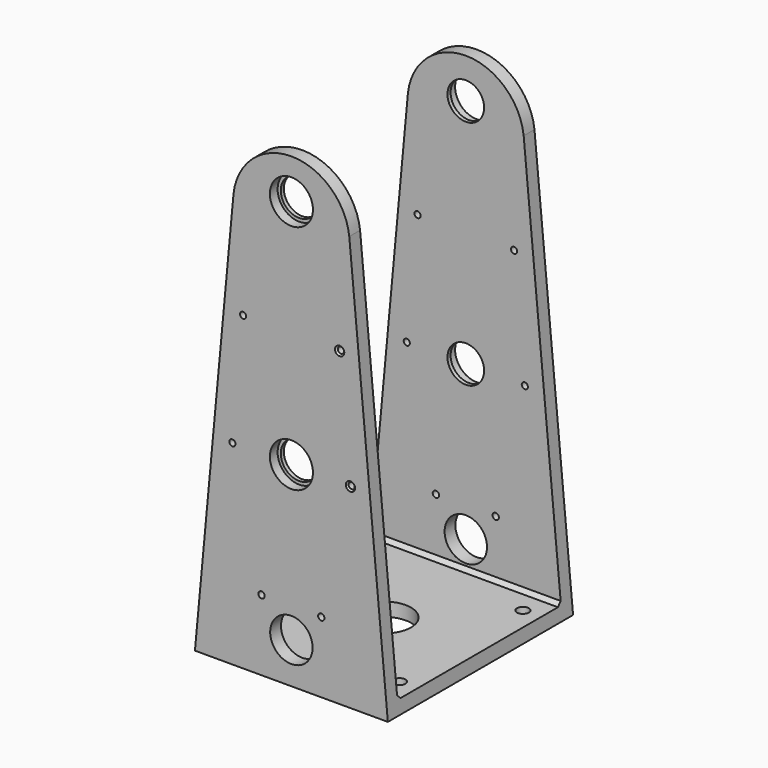
from build123d import *

# Parameters (mm, degrees)
SKETCH102_R             = 9.5
SKETCH102_R_2           = 11
SKETCH102_R_3           = 1.65
SKETCH102_R_4           = 1.6
PAD032_DEPTH            = 120
POCKET061_DEPTH         = 152.4
SKETCH099_R             = 3.1
SKETCH099_R_2           = 14
POCKET059_DEPTH         = 8
SKETCH098_R             = 11.15
POCKET060_DEPTH         = 5
SKETCH101_R             = 11.15
POCKET062_DEPTH         = 5
CHAMFER012_SIZE         = 0.8
BODY024_PLACEMENT_ANGLE = 90


with BuildPart() as part:
    # Sketch102 → Pad032 (new body)
    with BuildSketch(Plane.XY):
        with BuildLine():
            Line((-50, 0), (50, 0))
            Line((50, 0), (30, 215))
            ThreePointArc((30, 215), (0, 241.8364621975), (-30, 215))
            Line((-50, 0), (-30, 215))
        make_face()
        with Locations((0, 221.15)):
            Circle(SKETCH102_R, mode=Mode.SUBTRACT)
        with Locations((0, 21.15)):
            Circle(SKETCH102_R_2, mode=Mode.SUBTRACT)
        with Locations((0, 101.15)):
            Circle(SKETCH102_R, mode=Mode.SUBTRACT)
        with Locations((-15.5, 36.65)):
            Circle(SKETCH102_R_3, mode=Mode.SUBTRACT)
        with Locations((15.5, 36.65)):
            Circle(SKETCH102_R_3, mode=Mode.SUBTRACT)
        with Locations((-30.5906976744, 101.15)):
            Circle(SKETCH102_R_4, mode=Mode.SUBTRACT)
        with Locations((30.5906976744, 101.15)):
            Circle(SKETCH102_R_4, mode=Mode.SUBTRACT)
        with Locations((-25.0093023256, 161.15)):
            Circle(SKETCH102_R_4, mode=Mode.SUBTRACT)
        with Locations((25.0093023256, 161.15)):
            Circle(SKETCH102_R_4, mode=Mode.SUBTRACT)
    extrude(amount=PAD032_DEPTH)

    # Sketch100 → Pocket061 (cut, symmetric)
    with BuildSketch(Plane(origin=(0, 0, 120), x_dir=(0, 0, -1), z_dir=(1, 0, 0))):
        Polygon((7, 252.37), (113, 252.37), (113, 9), (111, 7), (9, 7), (7, 9), align=None)
    extrude(amount=POCKET061_DEPTH, both=True, mode=Mode.SUBTRACT)

    # Sketch099 (on Face1 of Pocket061) → Pocket059 (cut)
    with BuildSketch(Plane.XZ):
        with Locations((-40, 100)):
            Circle(SKETCH099_R)
        with Locations((40, 100)):
            Circle(SKETCH099_R)
        with Locations((-40, 20)):
            Circle(SKETCH099_R)
        with Locations((40, 20)):
            Circle(SKETCH099_R)
        with Locations((0, 60)):
            Circle(SKETCH099_R_2)
    extrude(amount=-POCKET059_DEPTH, mode=Mode.SUBTRACT)

    # Sketch098 (on Face4 of Pocket059) → Pocket060 (cut)
    with BuildSketch(Plane.XY.offset(120)):
        with Locations((0, 101.15)):
            Circle(SKETCH098_R)
        with Locations((0, 221.15)):
            Circle(SKETCH098_R)
    extrude(amount=-POCKET060_DEPTH, mode=Mode.SUBTRACT)

    # Sketch101 (on Face3 of Pocket060) → Pocket062 (cut)
    with BuildSketch(Plane(origin=(0, 0, 0), x_dir=(1, 0, 0), z_dir=(0, 0, -1))):
        with Locations((0, -221.15)):
            Circle(SKETCH101_R)
        with Locations((0, -101.15)):
            Circle(SKETCH101_R)
    extrude(amount=-POCKET062_DEPTH, mode=Mode.SUBTRACT)

    # Chamfer012
    chamfer012_edges = [part.edges().sort_by_distance(p)[0] for p in [
        (23.409302, 161.15, 0),
        (28.990698, 101.15, 0),
        (23.409302, 161.15, 120),
        (28.990698, 101.15, 120),
    ]]
    chamfer(chamfer012_edges, length=CHAMFER012_SIZE)


with BuildPart() as part_1:
    # Body024 placement: moved
    add(part.part.moved(Location((0, 60, 75.6))).rotate(Axis((0, 60, 75.6), (1, 0, 0)), BODY024_PLACEMENT_ANGLE))


solid = part_1.part
